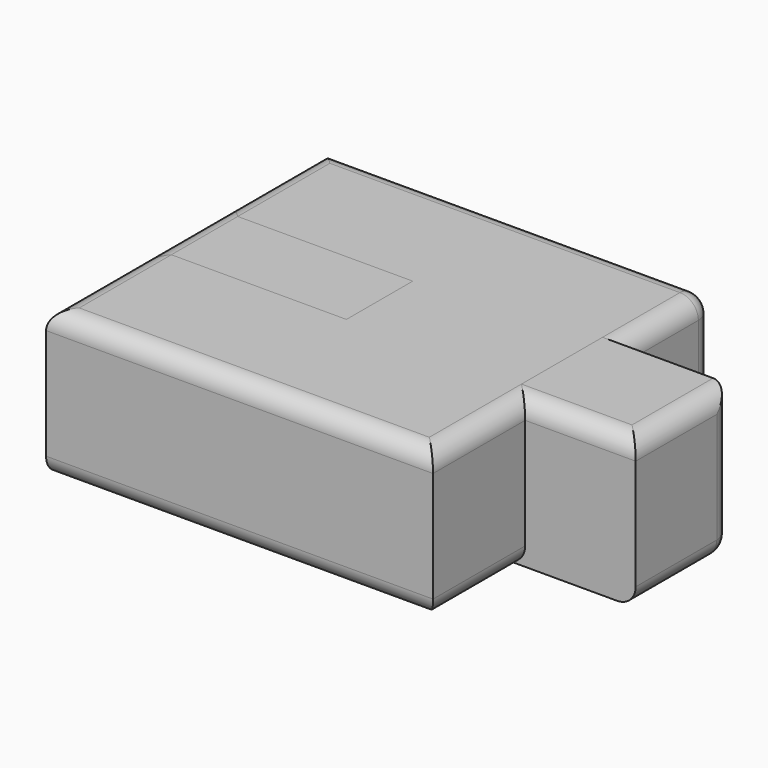
from build123d import *

# Parameters (mm, degrees)
SKETCH002_W      = 16.5
SKETCH002_H      = 6.5
EXTRUDE004_DEPTH = 8
FILLET_R         = 1
SKETCH_W         = 21
SKETCH_H         = 19
EXTRUDE_DEPTH    = 8
FILLET001_R      = 1
SKETCH001_W      = 10.5
SKETCH001_H      = 6.5
EXTRUDE001_DEPTH = 8
FILLET002_R      = 1


with BuildPart() as fillet_body:
    # Sketch002 → Extrude004 (new body)
    with BuildSketch(Plane.XY):
        with Locations((8.25, 0)):
            Rectangle(SKETCH002_W, SKETCH002_H)
    extrude(amount=EXTRUDE004_DEPTH)

    # Fillet
    fillet_edges = [fillet_body.edges().sort_by_distance(p)[0] for p in [
        (16.5, 3.25, 4),
        (8.25, 3.25, 0),
        (16.5, 0, 0),
        (16.5, 0, 8),
        (8.25, -3.25, 8),
    ]]
    fillet(fillet_edges, radius=FILLET_R)


with BuildPart() as fillet001:
    # Sketch → Extrude (new body)
    with BuildSketch(Plane.XY):
        Rectangle(SKETCH_W, SKETCH_H)
    extrude(amount=EXTRUDE_DEPTH)

    # Fillet001
    fillet001_edges = [fillet001.edges().sort_by_distance(p)[0] for p in [
        (10.5, 9.5, 4),
        (0, 9.5, 0),
        (0, 9.5, 8),
        (10.5, 0, 0),
        (10.5, 0, 8),
        (0, -9.5, 0),
        (0, -9.5, 8),
        (-10.5, 0, 8),
    ]]
    fillet(fillet001_edges, radius=FILLET001_R)


with BuildPart() as fillet002:
    # Sketch001 → Extrude001 (new body)
    with BuildSketch(Plane.XY):
        with Locations((-5.25, 0)):
            Rectangle(SKETCH001_W, SKETCH001_H)
    extrude(amount=EXTRUDE001_DEPTH)

    # Fillet002
    fillet002_edges = [fillet002.edges().sort_by_distance(p)[0] for p in [
        (-5.25, 3.25, 0),
        (-5.25, 3.25, 8),
        (-5.25, -3.25, 0),
        (-5.25, -3.25, 8),
        (-10.5, 0, 8),
    ]]
    fillet(fillet002_edges, radius=FILLET002_R)


solid = Compound([fillet_body.part, fillet001.part, fillet002.part])
